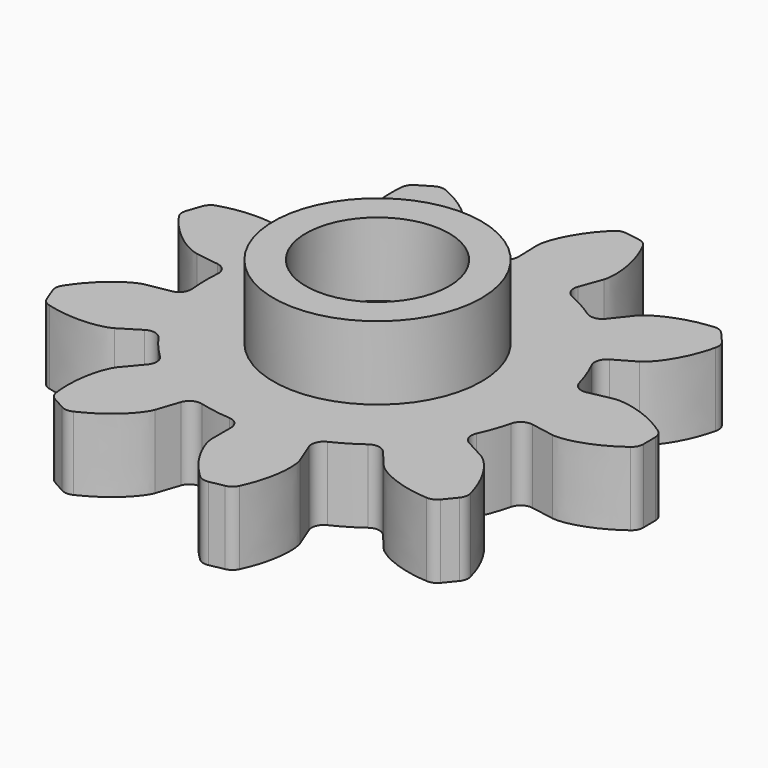
from build123d import *

# Parameters (mm, degrees)
F1_DEPTH = 3
F2_R     = 0.5
F4_COUNT = 9
F4_ANGLE = 320
F5_R     = 4.25
F5_R_2   = 2.925
F6_DEPTH = 3
F5_R_3   = 1.5
F7_DEPTH = 25


with BuildPart() as f1:
    # F0 (on Top) → F1 (new body)
    with BuildSketch(Plane.XY):
        with BuildLine():
            ThreePointArc((2.5821116884, -6.5063583692), (5.7911476332, -3.9322524195), (7, 0))
            ThreePointArc((7, 0), (-4.9497474683, 4.9497474683), (0, -7))
            ThreePointArc((0, -7), (1.3144374111, -6.8754821134), (2.5821116884, -6.5063583692))
        make_face()
        with BuildLine():
            ThreePointArc((2.5821116884, -6.5063583692), (1.3144374111, -6.8754821134), (0, -7))
            Line((0, -7), (0, -8.4572335871))
            add(Edge.make_bspline(
                [(0, -8.4572335871), (0.0020360285, -8.4948562605), (0.0075984383, -8.5976410322), (0.109087133, -8.9926740296), (0.3810655629, -9.5688626156), (0.8410280932, -10.2481808534), (1.2949019396, -10.6925828535), (1.5108607577, -10.8957468661)],
                knots=[0, 0, 0, 0, 0.0942195747, 0.2574069461, 0.4680803462, 0.7173522821, 0.9294987438, 0.9294987438, 0.9294987438, 0.9294987438], degree=3))
            Line((1.5108607577, -10.8957468661), (2.6148334001, -10.6846921476))
            add(Edge.make_bspline(
                [(3.1196459566, -7.8608275043), (3.1316315014, -7.8965480541), (3.1643758913, -7.9941362431), (3.2157612487, -8.3987478708), (3.1755032699, -9.0346290295), (2.9985596276, -9.8357093906), (2.7406210132, -10.4161939102), (2.6148334001, -10.6846921476)],
                knots=[0, 0, 0, 0, 0.0942195747, 0.2574069461, 0.4680803462, 0.7173522821, 0.9294987438, 0.9294987438, 0.9294987438, 0.9294987438], degree=3))
            Line((3.1196459566, -7.8608275043), (2.5821116884, -6.5063583692))
        make_face()
    extrude(amount=F1_DEPTH)

    # F2
    f2_edges = [f1.edges().sort_by_distance(p)[0] for p in [
        (0, -7, 1.5),
        (2.582112, -6.506358, 1.5),
        (2.614833, -10.684692, 1.5),
        (1.510861, -10.895747, 1.5),
    ]]
    fillet(f2_edges, radius=F2_R)

    # F4: F1 ×9 about axis
    f4_axis = Axis((0, 0, 21.8002591282), (0, 0, 1))


with BuildPart() as f1_1:
    add(f1.part)
    for i in range(1, F4_COUNT):
        add(f1.part.rotate(f4_axis, i * F4_ANGLE / (F4_COUNT - 1)))

    # F5 (on face) → F6 (join)
    with BuildSketch(Plane.XY.offset(3)):
        Circle(F5_R)
        Circle(F5_R_2, mode=Mode.SUBTRACT)
    extrude(amount=F6_DEPTH)

    # F5 (on face) → F7 (cut)
    with BuildSketch(Plane.XY.offset(3)):
        Circle(F5_R_3)
    extrude(amount=-F7_DEPTH, mode=Mode.SUBTRACT)


solid = f1_1.part
